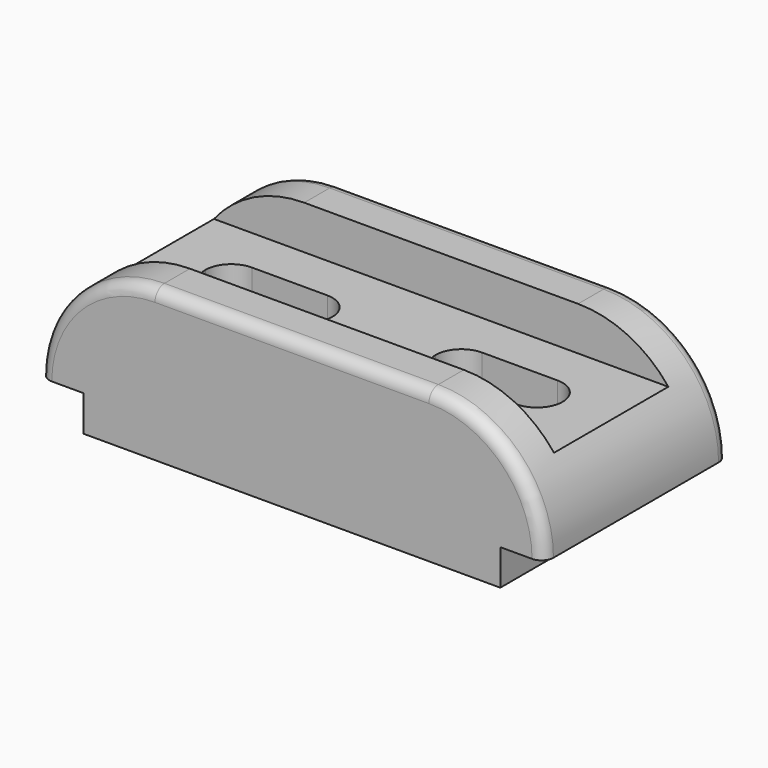
from build123d import *

# Parameters (mm, degrees)
F1_DEPTH = 29
F2_R     = 3
F3_W     = 127
F3_H     = 36
F4_DEPTH = 11
F6_DEPTH = 38.001


with BuildPart() as f1:
    # F0 (on Front) → F1 (new body, symmetric)
    with BuildSketch(Plane.XZ):
        with BuildLine():
            Line((-52.5, 0), (0, 0))
            Line((0, 0), (52.5, 0))
            Line((52.5, 0), (52.5, 9))
            Line((52.5, 9), (63.5, 9))
            ThreePointArc((63.5, 9), (55.006097, 29.506097), (34.5, 38))
            Line((34.5, 38), (0, 38))
            Line((0, 38), (-34.5, 38))
            ThreePointArc((-34.5, 38), (-55.006097, 29.506097), (-63.5, 9))
            Line((-63.5, 9), (-52.5, 9))
            Line((-52.5, 9), (-52.5, 0))
        make_face()
    extrude(amount=F1_DEPTH, both=True)

    # F2
    f2_edges = [f1.edges().sort_by_distance(p)[0] for p in [
        (0, -29, 38),
        (0, 29, 38),
    ]]
    fillet(f2_edges, radius=F2_R)

    # F3 (on face) → F4 (cut)
    with BuildSketch(Plane.XY.offset(38)):
        Rectangle(F3_W, F3_H)
    extrude(amount=-F4_DEPTH, mode=Mode.SUBTRACT)

    # F5 (on Top) → F6 (cut, through all)
    with BuildSketch(Plane.XY):
        with BuildLine():
            Line((-19.5, 6.5), (-38.5, 6.5))
            ThreePointArc((-38.5, 6.5), (-43.096194, 4.596194), (-45, 0))
            ThreePointArc((-45, 0), (-43.096194, -4.596194), (-38.5, -6.5))
            Line((-38.5, -6.5), (-19.5, -6.5))
            ThreePointArc((-19.5, -6.5), (-14.903806, -4.596194), (-13, 0))
            ThreePointArc((-13, 0), (-14.903806, 4.596194), (-19.5, 6.5))
        make_face()
        with BuildLine():
            Line((38.5, 6.5), (19.5, 6.5))
            ThreePointArc((19.5, 6.5), (14.903806, 4.596194), (13, 0))
            ThreePointArc((13, 0), (14.903806, -4.596194), (19.5, -6.5))
            Line((19.5, -6.5), (38.5, -6.5))
            ThreePointArc((38.5, -6.5), (43.096194, -4.596194), (45, 0))
            ThreePointArc((45, 0), (43.096194, 4.596194), (38.5, 6.5))
        make_face()
    extrude(amount=F6_DEPTH, mode=Mode.SUBTRACT)


solid = f1.part
